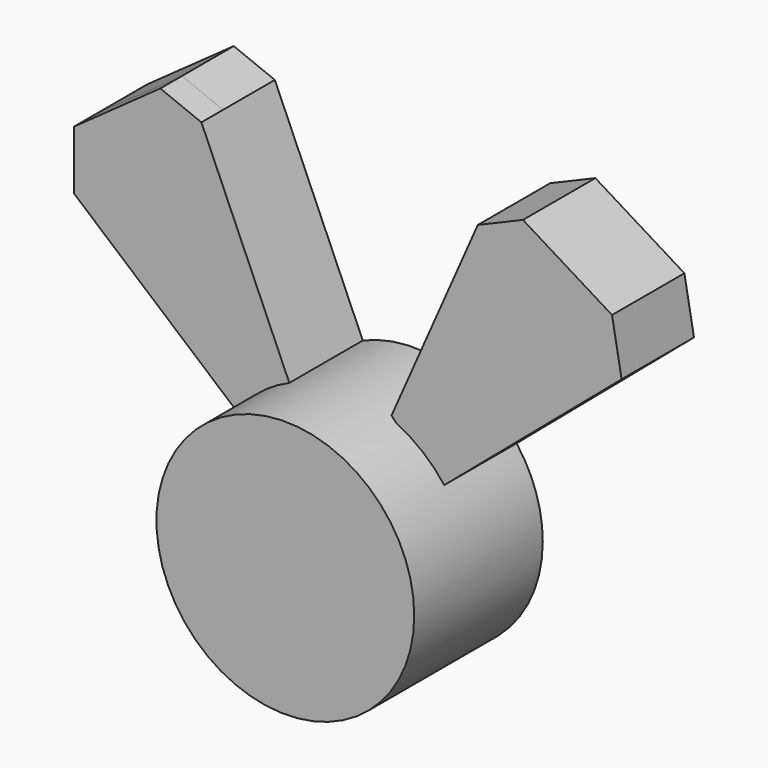
from build123d import *

# Parameters (mm, degrees)
F0_R     = 24.250121
F1_DEPTH = 30.226
F3_DEPTH = 17.272
F4_DEPTH = 12.192
F6_DEPTH = 17.018


with BuildPart() as f1:
    # F0 (on Front) → F1 (new body)
    with BuildSketch(Plane.XZ):
        Circle(F0_R)
    extrude(amount=F1_DEPTH)

    # F2 (on Front) → F3 (join)
    with BuildSketch(Plane.XZ):
        Polygon((-26.154635, 60.03971), (-33.885073, 63.131884), (-50.118987, 51.536232), (-50.118987, 40.455945), (-18.681886, 13.657101), (-8.889999, 20.614492), align=None)
    extrude(amount=F3_DEPTH)

    # F3_face (on face) → F4 (join)
    with BuildSketch(Plane(origin=(-11.093048, 0, 14.527669), x_dir=(1, 0, 0), z_dir=(0, 1, 0))):
        with BuildLine():
            ThreePointArc((35.343168, 14.527669), (3.526124, 37.566983), (-8.43476, 0.149453))
            Line((-8.43476, 0.149453), (-39.025939, -25.928276))
            Line((-39.025939, -25.928276), (-39.025939, -37.008564))
            Line((-39.025939, -37.008564), (-22.792025, -48.604215))
            Line((-22.792025, -48.604215), (-15.061588, -45.512042))
            Line((-15.061588, -45.512042), (1.480833, -7.736061))
            ThreePointArc((1.480833, -7.736061), (24.415416, -5.735176), (35.343168, 14.527669))
        make_face()
    extrude(amount=-F4_DEPTH)

    # F5 (on Front) → F6 (join)
    with BuildSketch(Plane.XZ):
        Polygon((25.639275, 59.782028), (9.405362, 22.933625), (18.166522, 13.657101), (52.695796, 43.032758), (50.892029, 53.082321), (34.142755, 63.38957), align=None)
    extrude(amount=F6_DEPTH)


solid = f1.part
